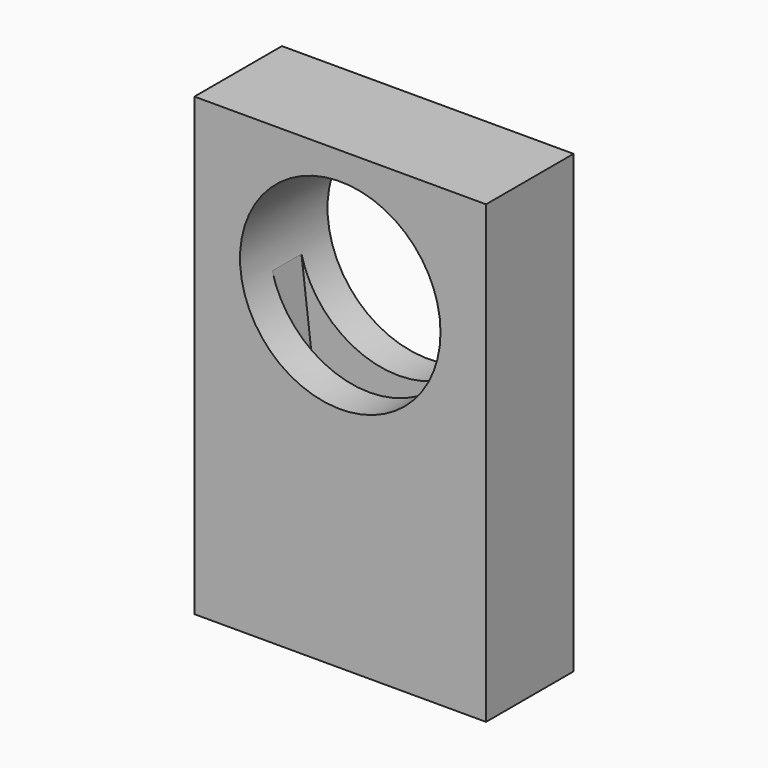
from build123d import *

# Parameters (mm, degrees)
F2_W     = 80
F2_H     = 125
F2_R     = 27.5
F3_DEPTH = 30
F4_START = 10
F4_DEPTH = 10
F1_R     = 20
F5_DEPTH = 10


with BuildPart() as f3:
    # F2 (on Front) → F3 (new body)
    with BuildSketch(Plane.XZ):
        with Locations((0, 12.5)):
            Rectangle(F2_W, F2_H)
        with Locations((0, 40)):
            Circle(F2_R, mode=Mode.SUBTRACT)
    extrude(amount=F3_DEPTH)

    # F0 (on Front) → F4 (cut)
    with BuildSketch(Plane.XZ.offset(F4_START)):
        with BuildLine():
            ThreePointArc((27.5, 36.3901084755), (0.4118554049, 67.4994501998), (-27.0675471314, 36.7351664218))
            Line((-27.0675471314, 36.7351664218), (-20, -22.3744244205))
            ThreePointArc((-20, -22.3744244205), (-0.2679149621, -39.9996001453), (19.6854888228, -22.6253756542))
            Line((19.6854888228, -22.6253756542), (27.5, 36.3901084755))
        make_face()
    extrude(amount=F4_DEPTH, mode=Mode.SUBTRACT)

    # F1 (on Front) → F5 (cut)
    with BuildSketch(Plane.XZ):
        with Locations((0, -20)):
            Circle(F1_R)
    extrude(amount=F5_DEPTH, mode=Mode.SUBTRACT)


solid = f3.part
